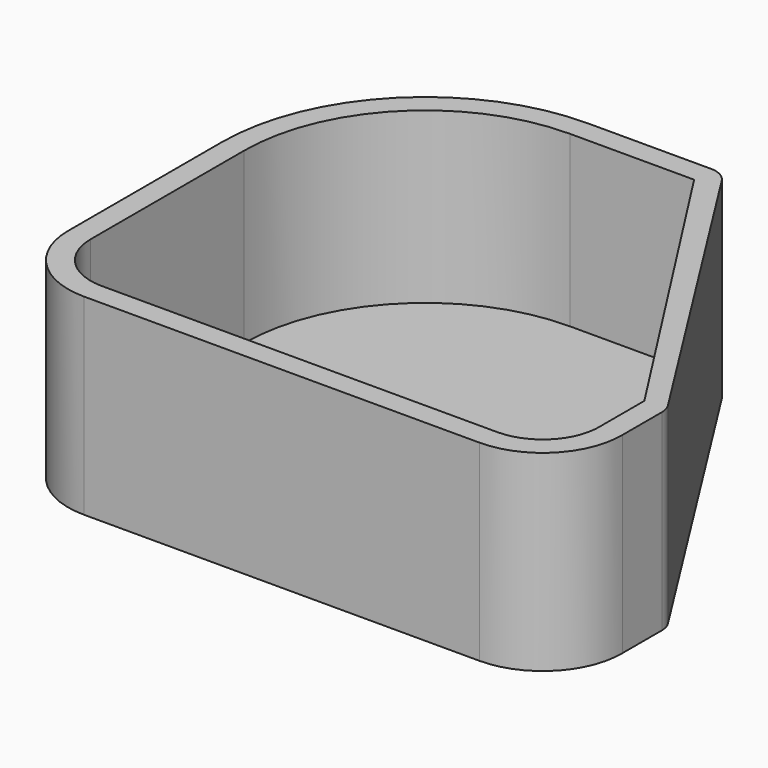
from build123d import *

# Parameters (mm, degrees)
PAD_DEPTH    = 17
POCKET_DEPTH = 15
FILLET_R     = 2


with BuildPart() as part:
    # Sketch → Pad (new body)
    with BuildSketch(Plane.XY):
        with BuildLine():
            Line((7, 0), (42, 0))
            ThreePointArc((42, 0), (46.976998, 2.077654), (48.999573, 7.077287))
            Line((48.999573, 7.077287), (48.999573, 12))
            Line((30, 42), (48.999573, 12))
            Line((30, 42), (18, 42))
            ThreePointArc((18, 42), (5.270984, 36.726828), (0, 23.996906))
            Line((0, 23.996906), (0, 7.00193))
            ThreePointArc((0, 7.00193), (2.04957, 2.050935), (7, 0))
        make_face()
    extrude(amount=PAD_DEPTH)

    # Sketch001 → Pocket (cut)
    with BuildSketch(Plane.XY.offset(17)):
        with BuildLine():
            Line((6.887434, 2.001267), (42.011518, 2.001267))
            ThreePointArc((42.011518, 2.001267), (45.614855, 3.546862), (46.99536, 7.216617))
            Line((46.99536, 7.216617), (46.99536, 12))
            Line((29, 40), (46.99536, 12))
            Line((29, 40), (17.998587, 40))
            ThreePointArc((17.998587, 40), (6.674789, 35.302194), (2.00003, 23.968863))
            Line((2.00003, 23.968863), (2.00003, 6.982594))
            ThreePointArc((2.00003, 6.982594), (3.430979, 3.498273), (6.887434, 2.001267))
        make_face()
    extrude(amount=-POCKET_DEPTH, mode=Mode.SUBTRACT)

    # Fillet
    fillet_edges = [part.edges().sort_by_distance(p)[0] for p in [
        (48.999573, 12, 8.5),
        (30, 42, 8.5),
    ]]
    fillet(fillet_edges, radius=FILLET_R)


solid = part.part
